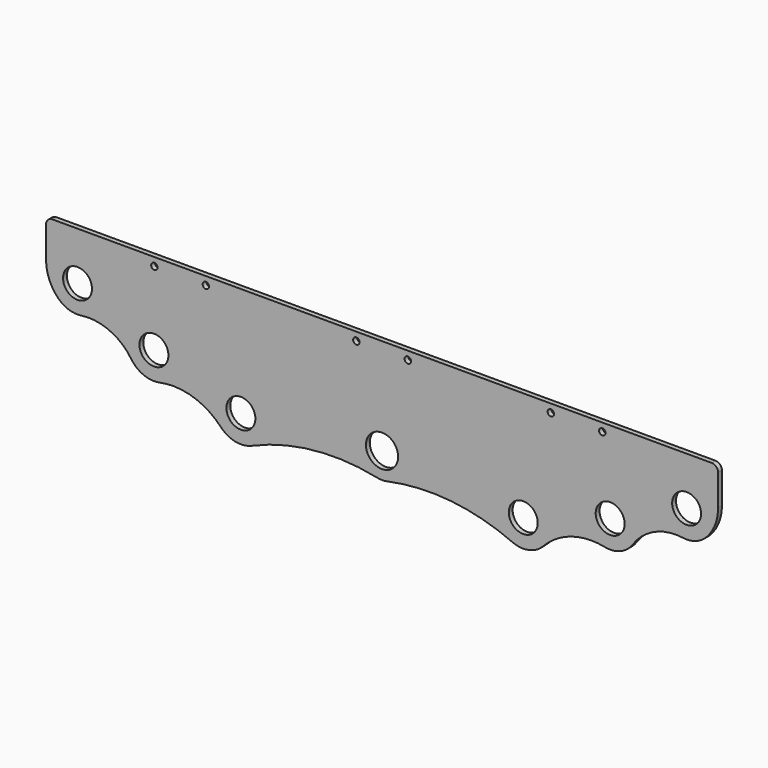
from build123d import *

# Parameters (mm, degrees)
F0_R     = 14.2875
F0_R_2   = 15.875
F0_R_3   = 3.175
F1_DEPTH = 4.7625


with BuildPart() as f1:
    # F0 (on Front) → F1 (new body)
    with BuildSketch(Plane.XZ):
        with BuildLine():
            ThreePointArc((320.379174, 54.839155), (328.771893, 68.117601), (331.705949, 83.549587))
            Line((331.705949, 83.549587), (331.705949, 114.540323))
            ThreePointArc((331.705949, 114.540323), (329.846077, 119.030451), (325.355949, 120.890323))
            Line((325.355949, 120.890323), (0, 120.890323))
            Line((0, 120.890323), (-325.355949, 120.890323))
            ThreePointArc((-325.355949, 120.890323), (-329.846077, 119.030451), (-331.705949, 114.540323))
            Line((-331.705949, 114.540323), (-331.705949, 83.549587))
            ThreePointArc((-331.705949, 83.549587), (-328.771893, 68.117601), (-320.379174, 54.839155))
            ThreePointArc((-320.379174, 54.839155), (-309.670458, 47.826041), (-296.934801, 46.536319))
            ThreePointArc((-296.934801, 46.536319), (-269.099557, 42.644178), (-247.49135, 24.671004))
            ThreePointArc((-247.49135, 24.671004), (-235.295113, 14.866395), (-219.708208, 13.478246))
            ThreePointArc((-219.708208, 13.478246), (-186.874924, 11.834063), (-159.034985, -5.649233))
            ThreePointArc((-159.034985, -5.649233), (-144.789086, -13.599949), (-128.564673, -11.888835))
            ThreePointArc((-128.564673, -11.888835), (-67.876372, 4.053452), (-5.219212, 0.690928))
            ThreePointArc((-5.219212, 0.690928), (-2.623901, 0.279775), (0, 0.138953))
            ThreePointArc((0, 0.138953), (2.623901, 0.279775), (5.219212, 0.690928))
            ThreePointArc((5.219212, 0.690928), (36.620267, 4.819782), (68.281297, 4.011744))
            ThreePointArc((68.281297, 4.011744), (99.037359, -1.609285), (128.564673, -11.888835))
            ThreePointArc((128.564673, -11.888835), (144.789086, -13.599949), (159.034985, -5.649233))
            ThreePointArc((159.034985, -5.649233), (171.832729, 4.879417), (186.874924, 11.834063))
            ThreePointArc((186.874924, 11.834063), (203.186029, 14.763672), (219.708208, 13.478246))
            ThreePointArc((219.708208, 13.478246), (235.295113, 14.866395), (247.49135, 24.671004))
            ThreePointArc((247.49135, 24.671004), (269.099557, 42.644178), (296.934801, 46.536319))
            ThreePointArc((296.934801, 46.536319), (309.670458, 47.826041), (320.379174, 54.839155))
        make_face()
        with Locations((-139.375032, 12.838909)):
            Circle(F0_R, mode=Mode.SUBTRACT)
        with Locations((-225.210487, 39.898884)):
            Circle(F0_R, mode=Mode.SUBTRACT)
        with Locations((-0.047461, 25.538909)):
            Circle(F0_R_2, mode=Mode.SUBTRACT)
        with Locations((139.375032, 12.838909)):
            Circle(F0_R, mode=Mode.SUBTRACT)
        with Locations((225.210487, 39.898884)):
            Circle(F0_R, mode=Mode.SUBTRACT)
        with Locations((-300.661124, 73.265323)):
            Circle(F0_R, mode=Mode.SUBTRACT)
        with Locations((-224.775985, 112.751594)):
            Circle(F0_R_3, mode=Mode.SUBTRACT)
        with Locations((-173.975985, 112.751594)):
            Circle(F0_R_3, mode=Mode.SUBTRACT)
        with Locations((-25.4, 112.751594)):
            Circle(F0_R_3, mode=Mode.SUBTRACT)
        with Locations((300.661124, 73.265323)):
            Circle(F0_R, mode=Mode.SUBTRACT)
        with Locations((25.4, 112.751594)):
            Circle(F0_R_3, mode=Mode.SUBTRACT)
        with Locations((166.605949, 112.751594)):
            Circle(F0_R_3, mode=Mode.SUBTRACT)
        with Locations((217.405949, 112.751594)):
            Circle(F0_R_3, mode=Mode.SUBTRACT)
    extrude(amount=F1_DEPTH)


solid = f1.part
